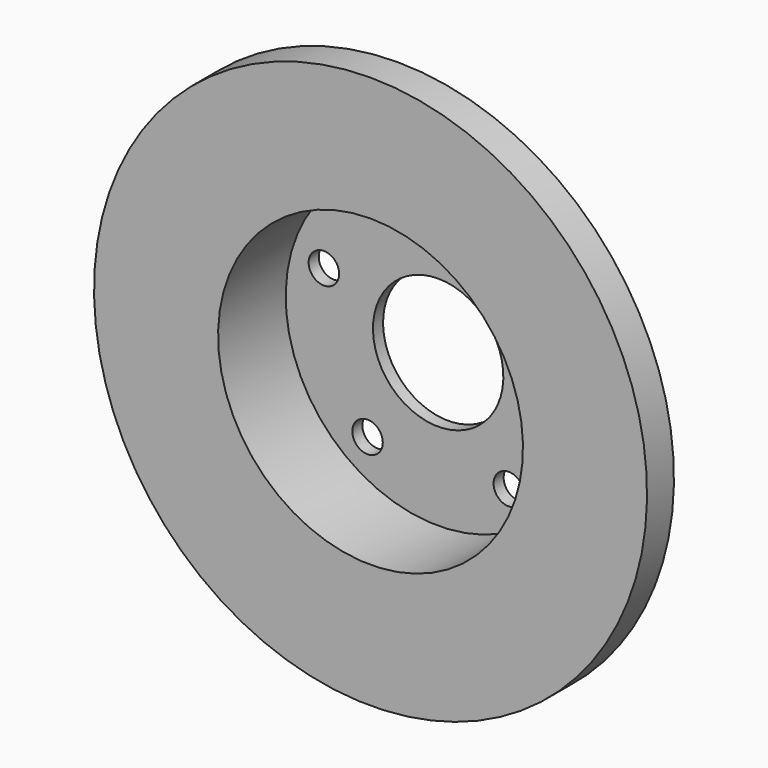
from build123d import *

# Parameters (mm, degrees)
F3_D = 14.5


with BuildPart() as f1:
    # F0 (on Right) → F1 (revolve)
    with BuildSketch(Plane.YZ):
        Polygon((0, 72.5), (0, 31), (6, 31), (6, 78.5), (-24.2, 78.5), (-24.2, 131.5), (-40.2, 131.5), (-40.2, 72.5), align=None)
    revolve(axis=Axis((0, -66.1122447776, 0), (0, -1, 0)))

    # F3 (through all)
    with Locations(Plane(origin=(0, 6, 0), x_dir=(-1, 0, 0), z_dir=(0, 1, 0))):
        with Locations((0, 57.15), (54.3528799063, 17.6603212285), (33.5919271685, -46.2353212285), (-33.5919271685, -46.2353212285), (-54.3528799063, 17.6603212285)):
            Hole(F3_D / 2)


solid = f1.part
